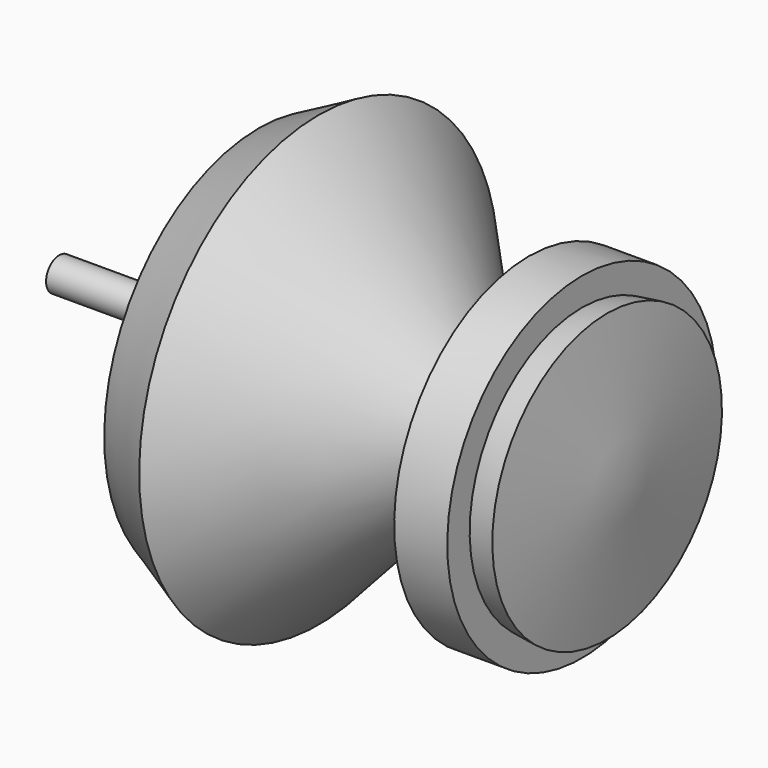
from build123d import *

# Parameters (mm, degrees)
F0_R     = 3.532331
F1_DEPTH = 60


with BuildPart() as f1:
    # F0 (on Right) → F1 (new body, symmetric)
    with BuildSketch(Plane.YZ):
        Circle(F0_R)
    extrude(amount=F1_DEPTH, both=True)

    # F2 (on Front) → F3 (revolve)
    with BuildSketch(Plane.XZ):
        Polygon((-17.313832, 41.32979), (-29.042555, 0), (40.492017, 0), (-4.468085, 48.031919), align=None)
        Polygon((40.492017, 36.023937), (40.492017, 0), (61.156917, 0), (57.247337, 30.718086), (51.851196, 30.031304), (51.851196, 36.023937), align=None)
    revolve(axis=Axis((0, 0, 0), (1, 0, 0)))


solid = f1.part
